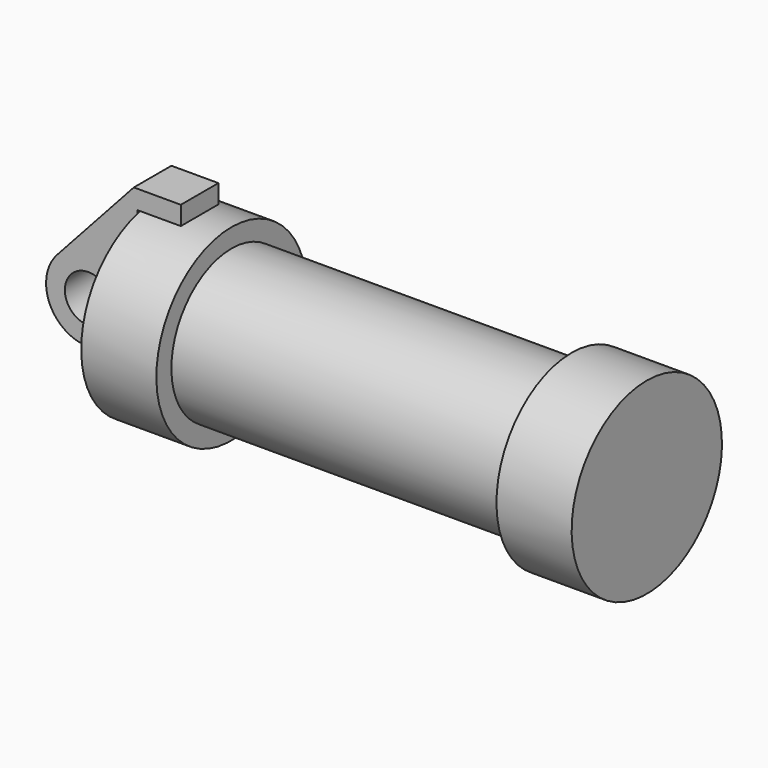
from build123d import *

# Parameters (mm, degrees)
F0_W     = 5.842
F0_H     = 12.7
F0_R     = 3.175
F2_DEPTH = 3.175


with BuildPart() as f1:
    # F0 (on Front) → F1 (revolve)
    with BuildSketch(Plane.XZ):
        with Locations((2.921, 6.35)):
            Rectangle(F0_W, F0_H)
        Polygon((5.842, 12.7), (5.842, 0), (66.294, 0), (66.294, 12.7), (56.134, 12.7), (56.134, 10.16), (10.16, 10.16), (10.16, 12.7), align=None)
    revolve(axis=Axis((33.147, 0, 0), (-1, 0, 0)))


with BuildPart() as f2:
    # F0 (on Front) → F2 (new body, symmetric)
    with BuildSketch(Plane.XZ):
        with BuildLine():
            ThreePointArc((-8.182663, -5.506983), (-3.195791, -4.549339), (-0.9398, 0))
            ThreePointArc((-0.9398, 0), (-4.591961, 5.329721), (-10.88063, 3.847543))
            ThreePointArc((-10.88063, 3.847543), (-12.145978, -1.583727), (-8.182663, -5.506983))
        make_face()
        with Locations((-6.6548, 0)):
            Circle(F0_R, mode=Mode.SUBTRACT)
        with BuildLine():
            Line((-0.9398, 0), (0, 0))
            Line((0, 0), (0, 12.7))
            Line((0, 12.7), (5.842, 12.7))
            Line((5.842, 12.7), (5.842, 15.24))
            Line((5.842, 15.24), (-0.508, 15.24))
            Line((-0.508, 15.24), (-10.88063, 3.847543))
            ThreePointArc((-10.88063, 3.847543), (-4.591961, 5.329721), (-0.9398, 0))
        make_face()
    extrude(amount=F2_DEPTH, both=True)


solid = Compound([f1.part, f2.part])
